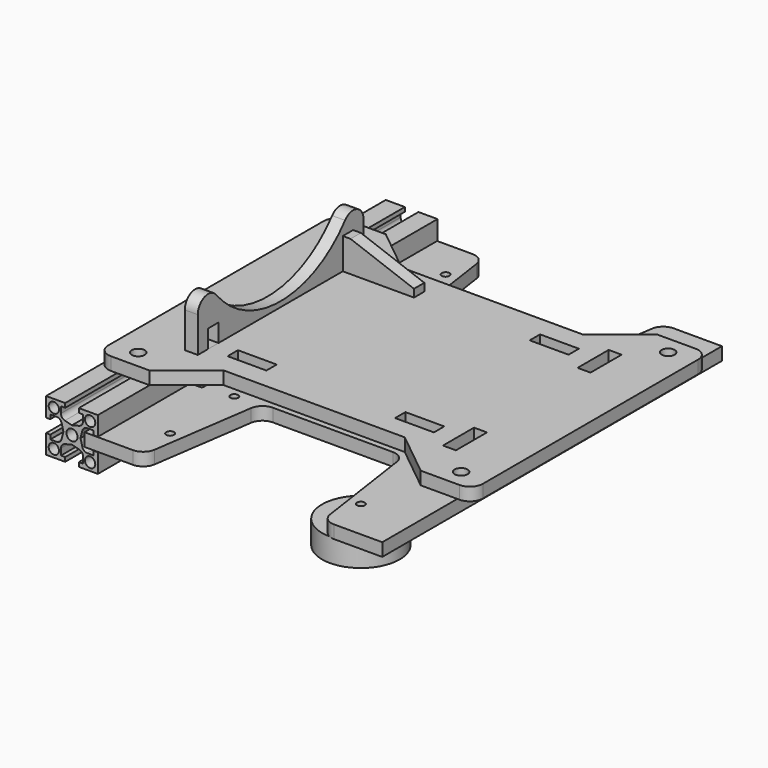
from build123d import *

# Parameters (mm, degrees)
F0_R           = 2.5
F0_W           = 5
F0_H           = 15
F0_W_2         = 15
F0_H_2         = 5
F1_DEPTH       = 5
F2_R           = 5
F3_W           = 5
F3_H           = 7
F4_DEPTH       = 5
F6_DEPTH       = 5
F7_R           = 2
F7_R_2         = 2.15
F8_DEPTH       = 82
F8_DEPTH_BACK  = 82
F10_R          = 1.5
F11_DEPTH      = 2.5
F11_DEPTH_BACK = 2.5
F12_R          = 5
F13_R          = 15
F13_R_2        = 1.5
F14_DEPTH      = 9


with BuildPart() as f1:
    # F0 (on Top) → F1 (new body)
    with BuildSketch(Plane.XY):
        Polygon((-52.35, 57), (-72.35, 57), (-72.35, -57), (-52.35, -57), (-35, -43), (35, -43), (52.35, -57), (72.35, -57), (72.35, 57), (52.35, 57), (35, 43), (-35, 43), align=None)
        with Locations((-62.35, -50)):
            Circle(F0_R, mode=Mode.SUBTRACT)
        with Locations((-49.85, -32.5)):
            Rectangle(F0_W, F0_H, mode=Mode.SUBTRACT)
        with Locations((-32.35, -32.5)):
            Rectangle(F0_W_2, F0_H_2, mode=Mode.SUBTRACT)
        with Locations((32.35, -32.5)):
            Rectangle(F0_W_2, F0_H_2, mode=Mode.SUBTRACT)
        with Locations((62.35, -50)):
            Circle(F0_R, mode=Mode.SUBTRACT)
        with Locations((49.85, -32.5)):
            Rectangle(F0_W, F0_H, mode=Mode.SUBTRACT)
        with Locations((-49.85, 32.5)):
            Rectangle(F0_W, F0_H, mode=Mode.SUBTRACT)
        with Locations((-62.35, 50)):
            Circle(F0_R, mode=Mode.SUBTRACT)
        with Locations((-32.35, 32.5)):
            Rectangle(F0_W_2, F0_H_2, mode=Mode.SUBTRACT)
        with Locations((32.35, 32.5)):
            Rectangle(F0_W_2, F0_H_2, mode=Mode.SUBTRACT)
        with Locations((49.85, 32.5)):
            Rectangle(F0_W, F0_H, mode=Mode.SUBTRACT)
        with Locations((62.35, 50)):
            Circle(F0_R, mode=Mode.SUBTRACT)
    extrude(amount=F1_DEPTH)

    # F2
    f2_edges = [f1.edges().sort_by_distance(p)[0] for p in [
        (-72.35, 57, 2.5),
        (-72.35, -57, 2.5),
        (72.35, -57, 2.5),
        (72.35, 57, 2.5),
    ]]
    fillet(f2_edges, radius=F2_R)


with BuildPart() as f4:
    # F3 (on face) → F4 (new body)
    with BuildSketch(Plane(origin=(-47.35, 0, 0), x_dir=(0, -1, 0), z_dir=(-1, 0, 0))):
        with BuildLine():
            ThreePointArc((40, 18.715729), (36.666667, 23.429774), (31.111111, 21.858426))
            ThreePointArc((31.111111, 21.858426), (0, 7), (-31.111111, 21.858426))
            ThreePointArc((-31.111111, 21.858426), (-36.666667, 23.429774), (-40, 18.715729))
            Line((-40, 18.715729), (-40, 5))
            Line((-40, 5), (-40, 0))
            Line((-40, 0), (-40, -4))
            ThreePointArc((-40, -4), (-39.12132, -6.12132), (-37, -7))
            Line((-37, -7), (-28, -7))
            ThreePointArc((-28, -7), (-25.87868, -6.12132), (-25, -4))
            Line((-25, -4), (-25, 0))
            Line((-25, 0), (-25, 5))
            Line((-25, 5), (25, 5))
            Line((25, 5), (25, 0))
            Line((25, 0), (25, -4))
            ThreePointArc((25, -4), (25.87868, -6.12132), (28, -7))
            Line((28, -7), (37, -7))
            ThreePointArc((37, -7), (39.12132, -6.12132), (40, -4))
            Line((40, -4), (40, 0))
            Line((40, 0), (40, 5))
            Line((40, 5), (40, 18.715729))
        make_face()
        with Locations((-32.5, 8.5)):
            Rectangle(F3_W, F3_H, mode=Mode.SUBTRACT)
        with Locations((32.5, 8.5)):
            Rectangle(F3_W, F3_H, mode=Mode.SUBTRACT)
    extrude(amount=F4_DEPTH)


with BuildPart() as f6:
    # F5 (on face) → F6 (new body)
    with BuildSketch(Plane(origin=(0, 30, 0), x_dir=(-1, 0, 0), z_dir=(0, 1, 0))):
        Polygon((19.85, 5), (24.85, 5), (24.85, 0), (39.85, 0), (39.85, 5), (47.35, 5), (52.35, 5), (52.35, 12), (47.35, 12), (47.35, 17), (44.35, 17), (19.85, 8), align=None)
    extrude(amount=F6_DEPTH)


with BuildPart() as f8:
    # F7 (on Front) → F8 (new body, two sides)
    with BuildSketch(Plane.XZ) as f8_sk:
        with BuildLine():
            Line((-52.35, -7.375), (-52.35, 0))
            Line((-52.35, 0), (-59.725, 0))
            Line((-59.725, 0), (-59.725, -1.625))
            Line((-59.725, -1.625), (-58.1, -1.625))
            Line((-58.1, -1.625), (-58.1, -4.067895))
            ThreePointArc((-58.1, -4.067895), (-58.521888, -5.296538), (-59.609563, -6.006831))
            Line((-59.609563, -6.006831), (-62.35, -6.7))
            Line((-62.35, -6.7), (-65.090437, -6.006831))
            ThreePointArc((-65.090437, -6.006831), (-66.178112, -5.296538), (-66.6, -4.067895))
            Line((-66.6, -4.067895), (-66.6, -1.625))
            Line((-66.6, -1.625), (-64.975, -1.625))
            Line((-64.975, -1.625), (-64.975, 0))
            Line((-64.975, 0), (-72.35, 0))
            Line((-72.35, 0), (-72.35, -7.375))
            Line((-72.35, -7.375), (-70.725, -7.375))
            Line((-70.725, -7.375), (-70.725, -5.75))
            Line((-70.725, -5.75), (-68.282105, -5.75))
            ThreePointArc((-68.282105, -5.75), (-67.053462, -6.171888), (-66.343169, -7.259563))
            Line((-66.343169, -7.259563), (-65.65, -10))
            Line((-65.65, -10), (-66.343169, -12.740437))
            ThreePointArc((-66.343169, -12.740437), (-67.053462, -13.828112), (-68.282105, -14.25))
            Line((-68.282105, -14.25), (-70.725, -14.25))
            Line((-70.725, -14.25), (-70.725, -12.625))
            Line((-70.725, -12.625), (-72.35, -12.625))
            Line((-72.35, -12.625), (-72.35, -20))
            Line((-72.35, -20), (-64.975, -20))
            Line((-64.975, -20), (-64.975, -18.375))
            Line((-64.975, -18.375), (-66.6, -18.375))
            Line((-66.6, -18.375), (-66.6, -15.932105))
            ThreePointArc((-66.6, -15.932105), (-66.178112, -14.703462), (-65.090437, -13.993169))
            Line((-65.090437, -13.993169), (-62.35, -13.3))
            Line((-62.35, -13.3), (-59.609563, -13.993169))
            ThreePointArc((-59.609563, -13.993169), (-58.521888, -14.703462), (-58.1, -15.932105))
            Line((-58.1, -15.932105), (-58.1, -18.375))
            Line((-58.1, -18.375), (-59.725, -18.375))
            Line((-59.725, -18.375), (-59.725, -20))
            Line((-59.725, -20), (-52.35, -20))
            Line((-52.35, -20), (-52.35, -12.625))
            Line((-52.35, -12.625), (-53.975, -12.625))
            Line((-53.975, -12.625), (-53.975, -14.25))
            Line((-53.975, -14.25), (-56.417895, -14.25))
            ThreePointArc((-56.417895, -14.25), (-57.646538, -13.828112), (-58.356831, -12.740437))
            Line((-58.356831, -12.740437), (-59.05, -10))
            Line((-59.05, -10), (-58.356831, -7.259563))
            ThreePointArc((-58.356831, -7.259563), (-57.646538, -6.171888), (-56.417895, -5.75))
            Line((-56.417895, -5.75), (-53.975, -5.75))
            Line((-53.975, -5.75), (-53.975, -7.375))
            Line((-53.975, -7.375), (-52.35, -7.375))
        make_face()
        with Locations((-69.35, -17)):
            Circle(F7_R, mode=Mode.SUBTRACT)
        with Locations((-55.35, -17)):
            Circle(F7_R, mode=Mode.SUBTRACT)
        with Locations((-62.35, -10)):
            Circle(F7_R_2, mode=Mode.SUBTRACT)
        with Locations((-69.35, -3)):
            Circle(F7_R, mode=Mode.SUBTRACT)
        with Locations((-55.35, -3)):
            Circle(F7_R, mode=Mode.SUBTRACT)
    extrude(amount=F8_DEPTH)
    extrude(f8_sk.sketch, amount=-F8_DEPTH_BACK)


with BuildPart() as f11:
    # F10 (on offset) → F11 (new body, two sides)
    with BuildSketch(Plane(origin=(0, 0, -10), x_dir=(1, 0, 0), z_dir=(0, 0, -1))) as f11_sk:
        with BuildLine():
            Line((34.5, -82), (57.5, -82))
            Line((57.5, -82), (57.5, 82))
            Line((57.5, 82), (34.5, 82))
            Line((34.5, 82), (28.123943, 38.278466))
            ThreePointArc((28.123943, 38.278466), (26.446777, 35.217959), (23.176278, 34))
            Line((23.176278, 34), (-23.176278, 34))
            ThreePointArc((-23.176278, 34), (-26.446777, 35.217959), (-28.123943, 38.278466))
            Line((-28.123943, 38.278466), (-34.5, 82))
            Line((-34.5, 82), (-57.5, 82))
            Line((-57.5, 82), (-57.5, -82))
            Line((-57.5, -82), (-34.5, -82))
            Line((-34.5, -82), (-28.123943, -38.278466))
            ThreePointArc((-28.123943, -38.278466), (-26.446777, -35.217959), (-23.176278, -34))
            Line((-23.176278, -34), (23.176278, -34))
            ThreePointArc((23.176278, -34), (26.446777, -35.217959), (28.123943, -38.278466))
            Line((28.123943, -38.278466), (34.5, -82))
        make_face()
        with Locations((-36.85, -66.5)):
            Circle(F10_R, mode=Mode.SUBTRACT)
        with Locations((-36.85, -35.5)):
            Circle(F10_R, mode=Mode.SUBTRACT)
        with Locations((-15.5, -15.5)):
            Circle(F10_R, mode=Mode.SUBTRACT)
        with Locations((36.85, -66.5)):
            Circle(F10_R, mode=Mode.SUBTRACT)
        with Locations((0, -15.5)):
            Circle(F10_R, mode=Mode.SUBTRACT)
        with Locations((15.5, -15.5)):
            Circle(F10_R, mode=Mode.SUBTRACT)
        with Locations((36.85, -35.5)):
            Circle(F10_R, mode=Mode.SUBTRACT)
        with Locations((-36.85, 0)):
            Circle(F10_R, mode=Mode.SUBTRACT)
        with Locations((-36.85, 35.5)):
            Circle(F10_R, mode=Mode.SUBTRACT)
        with Locations((-15.5, 0)):
            Circle(F10_R, mode=Mode.SUBTRACT)
        with Locations((-15.5, 15.5)):
            Circle(F10_R, mode=Mode.SUBTRACT)
        with Locations((-36.85, 66.5)):
            Circle(F10_R, mode=Mode.SUBTRACT)
        Circle(F10_R, mode=Mode.SUBTRACT)
        with Locations((0, 15.5)):
            Circle(F10_R, mode=Mode.SUBTRACT)
        with Locations((15.5, 0)):
            Circle(F10_R, mode=Mode.SUBTRACT)
        with Locations((15.5, 15.5)):
            Circle(F10_R, mode=Mode.SUBTRACT)
        with Locations((36.85, 0)):
            Circle(F10_R, mode=Mode.SUBTRACT)
        with Locations((36.85, 35.5)):
            Circle(F10_R, mode=Mode.SUBTRACT)
        with Locations((36.85, 66.5)):
            Circle(F10_R, mode=Mode.SUBTRACT)
    extrude(amount=F11_DEPTH)
    extrude(f11_sk.sketch, amount=-F11_DEPTH_BACK)

    # F12
    f12_edges = [f11.edges().sort_by_distance(p)[0] for p in [
        (34.5, 82, -10),
        (-34.5, 82, -10),
        (-34.5, -82, -10),
        (34.5, -82, -10),
    ]]
    fillet(f12_edges, radius=F12_R)


with BuildPart() as f14:
    # F13 (on face) → F14 (new body)
    with BuildSketch(Plane(origin=(0, 0, -12.5), x_dir=(1, 0, 0), z_dir=(0, 0, -1))):
        with Locations((36.85, 66.5)):
            Circle(F13_R)
        with Locations((36.85, 66.5)):
            Circle(F13_R_2, mode=Mode.SUBTRACT)
    extrude(amount=F14_DEPTH)


solid = Compound([f1.part, f4.part, f6.part, f8.part, f11.part, f14.part])
